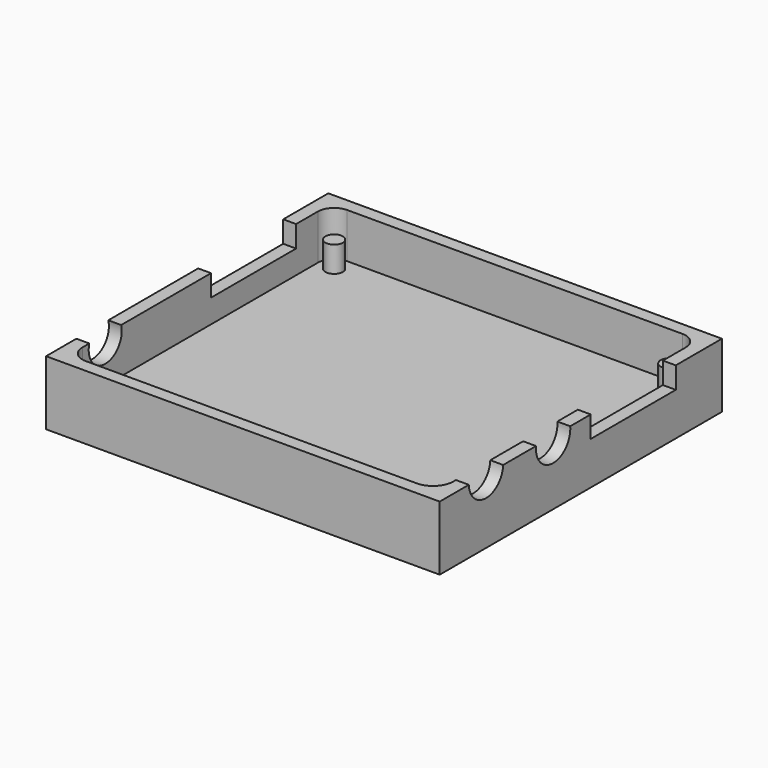
from build123d import *

# Parameters (mm, degrees)
SKETCH_W        = 61.15
SKETCH_H        = 54.8
PAD_DEPTH       = 10
POCKET_DEPTH    = 7
SKETCH002_R     = 3.21
SKETCH002_W     = 16.51
SKETCH002_H     = 3.3499967217
POCKET001_DEPTH = 5
SKETCH003_R     = 3.34
SKETCH003_W     = 16.51
SKETCH003_H     = 3.3499967217
POCKET002_DEPTH = 5
SKETCH009_R     = 1.375159
SKETCH009_R_2   = 1.35
PAD003_DEPTH    = 4


with BuildPart() as part:
    # Sketch → Pad (new body)
    with BuildSketch(Plane.XY):
        with Locations((4.8749828339, -3.3899418259)):
            Rectangle(SKETCH_W, SKETCH_H)
    extrude(amount=PAD_DEPTH)

    # Sketch001 (on Face6 of Pad) → Pocket (cut)
    with BuildSketch(Plane.XY.offset(10)):
        with BuildLine():
            ThreePointArc((33.4499828339, 19.4700581741), (32.706036987, 21.2661123273), (30.9099828339, 22.0100581741))
            Line((-21.1600171661, 22.0100581741), (30.9099828339, 22.0100581741))
            ThreePointArc((-21.1600171661, 22.0100581741), (-22.9560771773, 21.2661181853), (-23.7000171661, 19.4700581741))
            Line((-23.7000171661, -26.2499418259), (-23.7000171661, 19.4700581741))
            ThreePointArc((-23.7000171661, -26.2499418259), (-22.9560713193, -28.045995979), (-21.1600171661, -28.7899418259))
            Line((30.2749828339, -28.7899418259), (-21.1600171661, -28.7899418259))
            ThreePointArc((30.2749828339, -28.7899418259), (32.5200439352, -27.8600029272), (33.4499828339, -25.6149418259))
            Line((33.4499828339, 19.4700581741), (33.4499828339, -25.6149418259))
        make_face()
    extrude(amount=-POCKET_DEPTH, mode=Mode.SUBTRACT)

    # Sketch002 (on Face2 of Pocket) → Pocket001 (cut)
    with BuildSketch(Plane(origin=(-25.7000171661, 0, 0), x_dir=(0, -1, 0), z_dir=(-1, 0, 0))):
        with Locations((21.8049418259, 9.1500032783)):
            Circle(SKETCH002_R)
        with Locations((-7.0020581741, 8.3250016391)):
            Rectangle(SKETCH002_W, SKETCH002_H)
    extrude(amount=-POCKET001_DEPTH, mode=Mode.SUBTRACT)

    # Sketch003 (on Face3 of Pocket001) → Pocket002 (cut)
    with BuildSketch(Plane.YZ.offset(35.4499828339)):
        with Locations((-21.8049418259, 10.1500032783)):
            Circle(SKETCH003_R)
        with Locations((-8.7709418259, 9.6500032783)):
            Circle(SKETCH003_R)
        with Locations((6.7920581741, 8.3250016391)):
            Rectangle(SKETCH003_W, SKETCH003_H)
    extrude(amount=-POCKET002_DEPTH, mode=Mode.SUBTRACT)

    # Sketch009 (on Face30 of Pocket002) → Pad003 (join)
    with BuildSketch(Plane.XY.offset(3)):
        with Locations((-7.9520171661, -25.8689418259)):
            Circle(SKETCH009_R)
        with Locations((-7.9520171661, -25.8689418259)):
            Circle(SKETCH009_R_2, mode=Mode.SUBTRACT)
        with Locations((17.5749828339, -25.9959418259)):
            Circle(SKETCH009_R_2)
        with Locations((30.9099828339, 19.4700581741)):
            Circle(SKETCH009_R_2)
        with Locations((-21.1600171661, 19.4700581741)):
            Circle(SKETCH009_R_2)
    extrude(amount=PAD003_DEPTH)


solid = part.part
